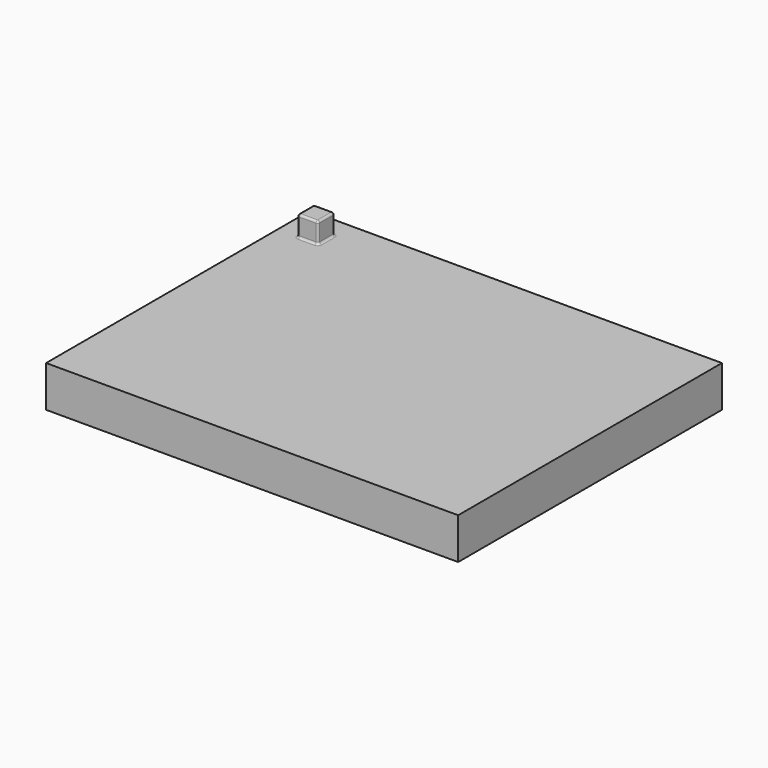
from build123d import *

# Parameters (mm, degrees)
F0_W     = 254
F0_H     = 203.2
F1_DEPTH = 25.4
F2_W     = 12.7
F2_H     = 12.7
F3_DEPTH = 12.7
F4_R     = 1.27


with BuildPart() as f1:
    # F0 (on Top) → F1 (new body)
    with BuildSketch(Plane.XY):
        with Locations((127, 101.6)):
            Rectangle(F0_W, F0_H)
    extrude(amount=F1_DEPTH)

    # F2 (on face) → F3 (join)
    with BuildSketch(Plane.XY.offset(25.4)):
        with Locations((19.05, 184.15)):
            Rectangle(F2_W, F2_H)
    extrude(amount=F3_DEPTH)

    # F4
    f4_edges = [f1.edges().sort_by_distance(p)[0] for p in [
        (19.05, 177.8, 25.4),
        (25.4, 184.15, 25.4),
        (19.05, 190.5, 25.4),
        (12.7, 184.15, 25.4),
        (19.05, 190.5, 38.1),
        (12.7, 184.15, 38.1),
        (19.05, 177.8, 38.1),
        (25.4, 184.15, 38.1),
        (12.7, 177.8, 31.75),
        (25.4, 177.8, 31.75),
        (25.4, 190.5, 31.75),
        (12.7, 190.5, 31.75),
    ]]
    fillet(f4_edges, radius=F4_R)


solid = f1.part
